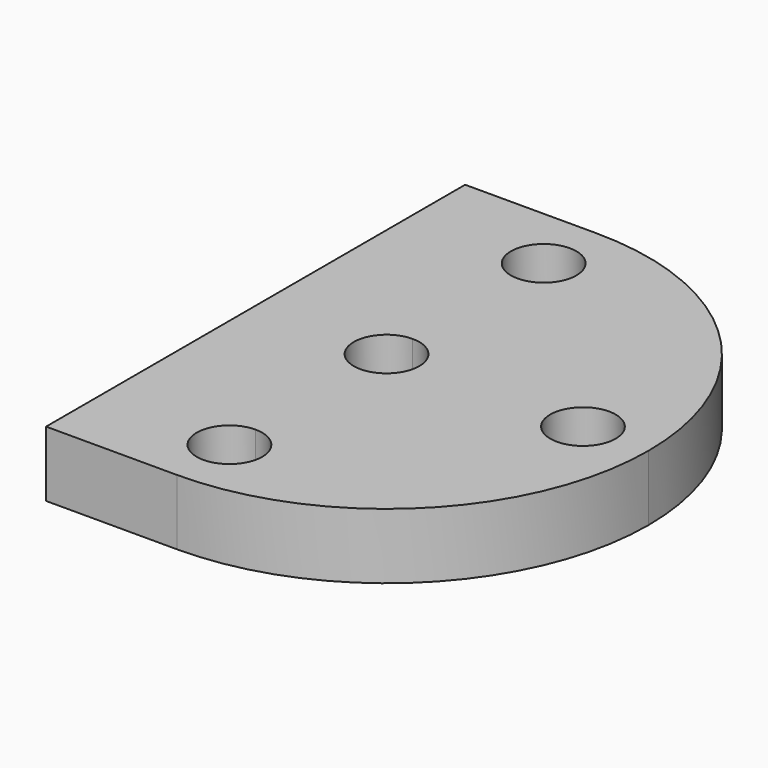
from build123d import *

# Parameters (mm, degrees)
F1_DEPTH = 6.35


with BuildPart() as f1:
    # F0 (on Top) → F1 (new body)
    with BuildSketch(Plane.XY):
        with BuildLine():
            Line((12.7, 0), (0, 0))
            Line((0, 0), (0, -50.8))
            Line((0, -50.8), (12.7, -50.8))
            ThreePointArc((12.7, -50.8), (30.660512, -43.360512), (38.1, -25.4))
            ThreePointArc((38.1, -25.4), (30.660512, -7.439488), (12.7, 0))
        make_face()
        with BuildLine():
            ThreePointArc((15.875, -44.45), (10.454936, -46.695064), (12.7, -41.275))
            ThreePointArc((12.7, -41.275), (14.945064, -42.204936), (15.875, -44.45))
        make_face(mode=Mode.SUBTRACT)
        with BuildLine():
            ThreePointArc((12.7, -22.225), (14.945064, -23.154936), (15.875, -25.4))
            ThreePointArc((15.875, -25.4), (14.945064, -27.645064), (12.7, -28.575))
            ThreePointArc((12.7, -28.575), (9.525, -25.4), (12.7, -22.225))
        make_face(mode=Mode.SUBTRACT)
        with BuildLine():
            ThreePointArc((34.925, -25.4), (31.75, -28.575), (28.575, -25.4))
            ThreePointArc((28.575, -25.4), (31.75, -22.225), (34.925, -25.4))
        make_face(mode=Mode.SUBTRACT)
        with BuildLine():
            ThreePointArc((15.875, -6.35), (14.945064, -8.595064), (12.7, -9.525))
            ThreePointArc((12.7, -9.525), (10.454936, -4.104936), (15.875, -6.35))
        make_face(mode=Mode.SUBTRACT)
    extrude(amount=F1_DEPTH)


solid = f1.part
